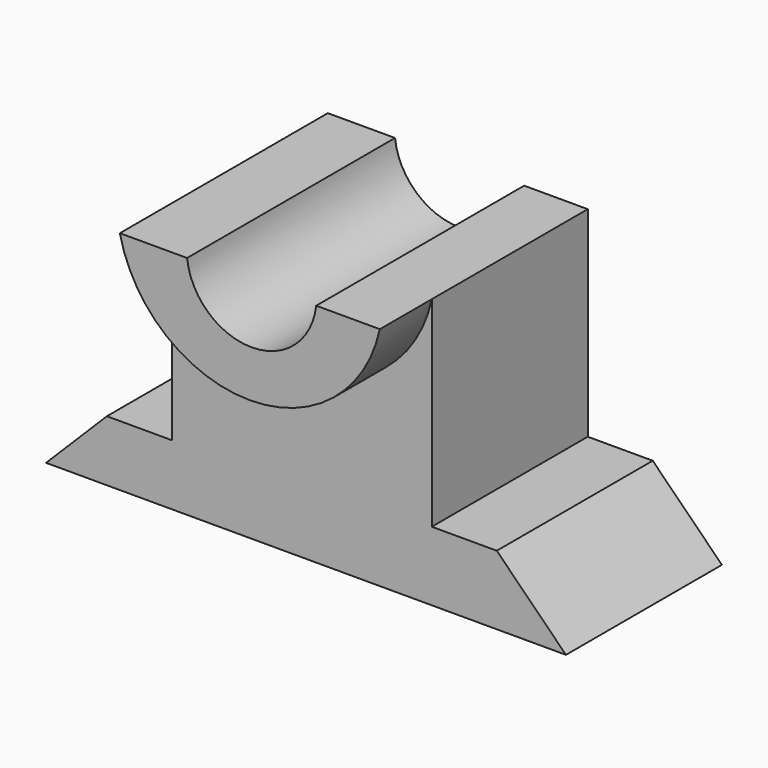
from build123d import *

# Parameters (mm, degrees)
F1_DEPTH = 30
F3_DEPTH = 10
F5_DEPTH = 40.001


with BuildPart() as f1:
    # F0 (on Front) → F1 (new body)
    with BuildSketch(Plane.XZ):
        Polygon((9.355192, 9.355192), (0, 0), (80, 0), (69.355192, 10.644808), (59.355192, 10.644808), (59.355192, 41.47071), (19.355192, 41.47071), (19.355192, 9.355192), align=None)
    extrude(amount=F1_DEPTH)

    # F2 (on face) → F3 (join)
    with BuildSketch(Plane.XZ.offset(30)):
        with BuildLine():
            Line((59.355192, 41.47071), (19.355192, 41.47071))
            ThreePointArc((19.355192, 41.47071), (39.355192, 25.341718), (59.355192, 41.47071))
        make_face()
    extrude(amount=F3_DEPTH)

    # F4 (on face) → F5 (cut, through all)
    with BuildSketch(Plane.XZ.offset(40)):
        with BuildLine():
            Line((49.568015, 41.47071), (29.695006, 41.47071))
            ThreePointArc((29.695006, 41.47071), (39.631511, 32.595821), (49.568015, 41.47071))
        make_face()
    extrude(amount=-F5_DEPTH, mode=Mode.SUBTRACT)


solid = f1.part
